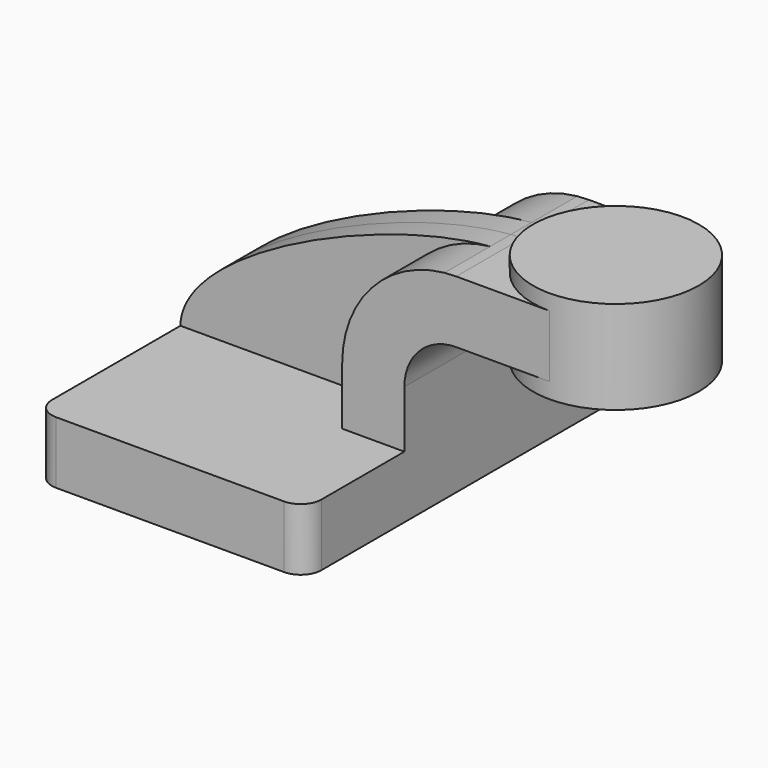
from build123d import *

# Parameters (mm, degrees)
F1_DEPTH = 63.5
F2_DEPTH = 25.4
F0_W     = 25.4
F0_H     = 19.05
F3_DEPTH = 25.4
F4_DEPTH = 7.9375
F6_R     = 6.35


with BuildPart() as f1:
    # F0 (on Front) → F1 (new body, symmetric)
    with BuildSketch(Plane.XZ):
        Polygon((-41.275, 9.525), (-41.275, -9.525), (41.275, -9.525), (41.275, 9.525), (22.225, 9.525), align=None)
    extrude(amount=F1_DEPTH, both=True)

    # F0 (on Front) → F2 (join, symmetric)
    with BuildSketch(Plane.XZ):
        with BuildLine():
            Line((22.225, 9.525), (41.275, 9.525))
            Line((41.275, 9.525), (41.275, 27.0002))
            ThreePointArc((41.275, 27.0002), (45.9246798487, 38.2255201513), (57.15, 42.8752))
            Line((57.15, 42.8752), (60.325, 42.8752))
            Line((60.325, 42.8752), (60.325, 61.9252))
            Line((60.325, 61.9252), (57.15, 61.9252))
            add(Edge.make_bspline(
                [(53.5742223952, 61.7416657077), (54.8066544525, 61.8373665684), (56.0001082359, 61.8990472552), (57.15, 61.9252)],
                knots=[107.5074121299, 107.5074121299, 107.5074121299, 107.5074121299, 111.5045361635, 111.5045361635, 111.5045361635, 111.5045361635], degree=3))
            ThreePointArc((53.5742223952, 61.7416657077), (31.2208691059, 50.3975459195), (22.225, 27.0002))
            Line((22.225, 27.0002), (22.225, 9.525))
        make_face()
    extrude(amount=F2_DEPTH, both=True)

    # F0 (on Front) → F3 (join, symmetric)
    with BuildSketch(Plane.XZ):
        with Locations((73.025, 52.4002)):
            Rectangle(F0_W, F0_H)
    extrude(amount=F3_DEPTH, both=True)

    # F0 (on Front) → F4 (join, symmetric)
    with BuildSketch(Plane.XZ):
        with BuildLine():
            add(Edge.make_bspline(
                [(-41.275, 9.525), (-40.9183161587, 31.9833210844), (20.4264941805, 59.1676770631), (53.5742223952, 61.7416657077)],
                knots=[0, 0, 0, 0, 107.5074121299, 107.5074121299, 107.5074121299, 107.5074121299], degree=3))
            Line((-41.275, 9.525), (22.225, 9.525))
            Line((22.225, 9.525), (22.225, 27.0002))
            ThreePointArc((22.225, 27.0002), (31.2208691059, 50.3975459195), (53.5742223952, 61.7416657077))
        make_face()
    extrude(amount=F4_DEPTH, both=True)

    # F0 (on Front) → F5 (revolve)
    with BuildSketch(Plane.XZ):
        Polygon((85.725, 66.675), (85.725, 61.9252), (85.725, 42.8752), (85.725, 38.1), (111.125, 38.1), (111.125, 66.675), align=None)
    revolve(axis=Axis((85.725, 0, 52.3875), (0, 0, 1)))

    # F6
    f6_edges = [f1.edges().sort_by_distance(p)[0] for p in [
        (-41.275, -63.5, 0),
        (41.275, -63.5, 0),
        (-41.275, 63.5, 0),
        (41.275, 63.5, 0),
    ]]
    fillet(f6_edges, radius=F6_R)


solid = f1.part
